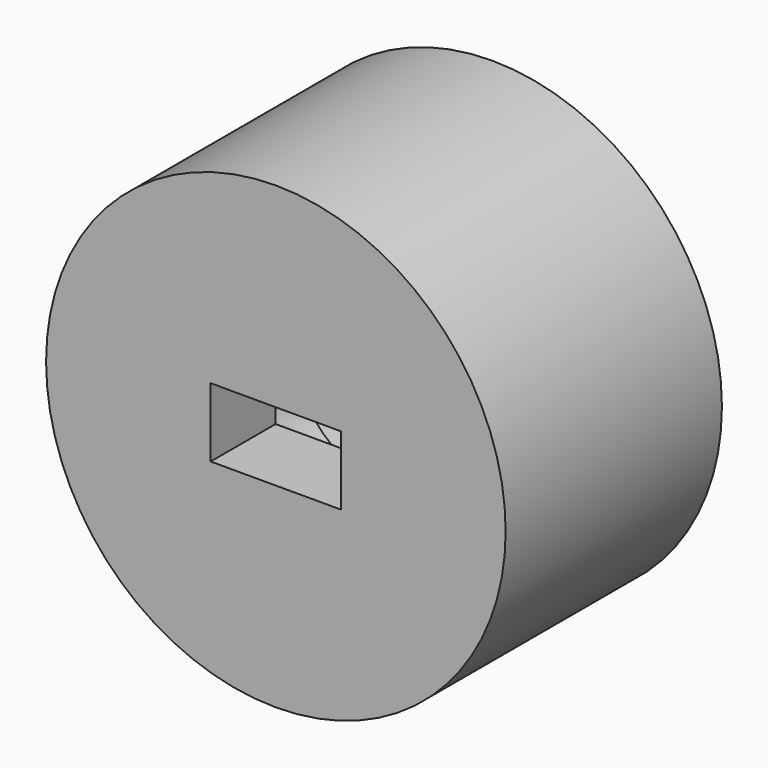
from build123d import *

# Parameters (mm, degrees)
SKETCH020_R             = 8.5
SKETCH020_W             = 4.82
SKETCH020_H             = 2.55
PAD013_DEPTH            = 10
SKETCH021_R             = 7.75
SKETCH021_R_2           = 6.75
POCKET010_DEPTH         = 5
SKETCH022_R             = 5.45
POCKET011_DEPTH         = 5
SKETCH023_R             = 3.25
POCKET012_DEPTH         = 2
BODY006_PLACEMENT_ANGLE = 270


with BuildPart() as part:
    # Sketch020 → Pad013 (new body)
    with BuildSketch(Plane.XY):
        Circle(SKETCH020_R)
        Rectangle(SKETCH020_W, SKETCH020_H, mode=Mode.SUBTRACT)
    extrude(amount=PAD013_DEPTH)

    # Sketch021 (on Face7 of Pad013) → Pocket010 (cut)
    with BuildSketch(Plane.XY.offset(10)):
        Circle(SKETCH021_R)
        Circle(SKETCH021_R_2, mode=Mode.SUBTRACT)
    extrude(amount=-POCKET010_DEPTH, mode=Mode.SUBTRACT)

    # Sketch022 (on Face9 of Pocket010) → Pocket011 (cut)
    with BuildSketch(Plane.XY.offset(10)):
        Circle(SKETCH022_R)
    extrude(amount=-POCKET011_DEPTH, mode=Mode.SUBTRACT)

    # Sketch023 (on Face9 of Pocket011) → Pocket012 (cut)
    with BuildSketch(Plane.XY.offset(5)):
        Circle(SKETCH023_R)
    extrude(amount=-POCKET012_DEPTH, mode=Mode.SUBTRACT)


with BuildPart() as part_1:
    # Body006 placement: moved
    add(part.part.moved(Location((41.45, -89.75, 15.2))).rotate(Axis((41.45, -89.75, 15.2), (1, 0, 0)), BODY006_PLACEMENT_ANGLE))


solid = part_1.part
